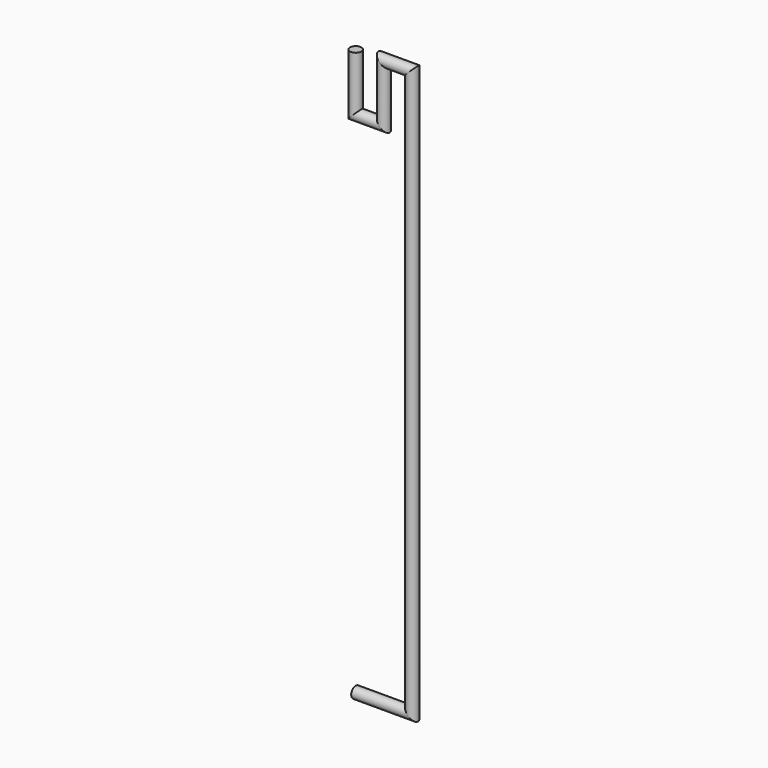
from build123d import *

# Parameters (mm, degrees)
F0_R = 1


with BuildPart() as f2:
    # F2: sweep along a path in F1
    with BuildLine(Plane.XZ) as f2_path:
        Line((-25.4159729801, 0), (-25.4159729801, -10))
        Line((-25.4159729801, -10), (-20.4159729801, -10))
        Line((-20.4159729801, -10), (-20.4159729801, 0))
        Line((-20.4159729801, 0), (-15.4159729801, 0))
        Line((-15.4159729801, 0), (-15.4159729801, -100))
        Line((-15.4159729801, -100), (-25.4159729801, -100))
    # F0 (on Top) → F2 (sweep)
    with BuildSketch(Plane.XY):
        with Locations((-25.4159729801, 0)):
            Circle(F0_R)
    sweep(path=f2_path.line, transition=Transition.RIGHT)


solid = f2.part
